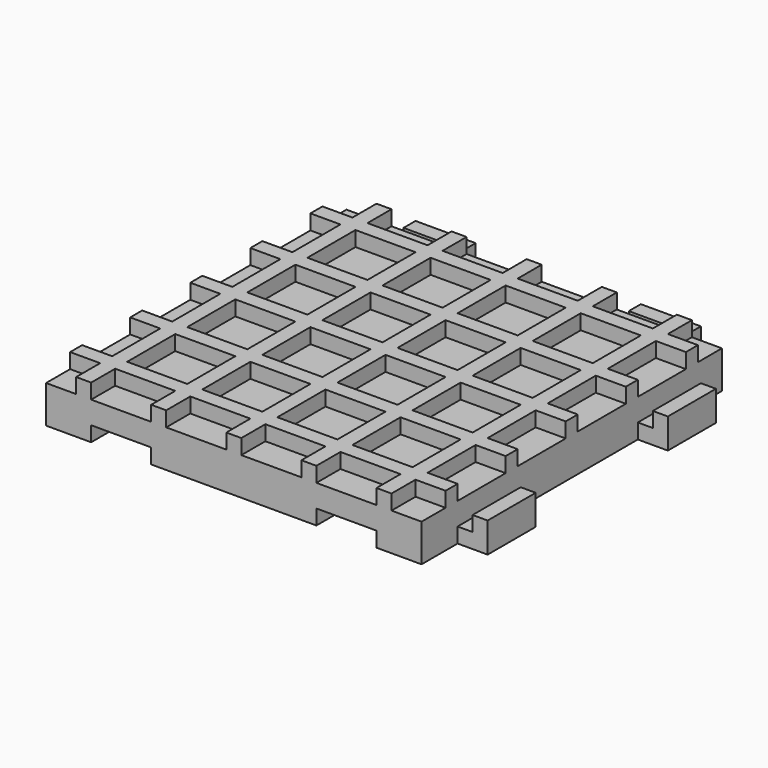
from build123d import *

# Parameters (mm, degrees)
F0_W      = 50
F0_H      = 50
F1_DEPTH  = 5
F2_W      = 4
F2_H      = 2
F2_W_2    = 2
F2_H_2    = 4
F2_W_3    = 8
F2_H_3    = 8
F4_DEPTH  = 2
F3_W      = 8
F3_H      = 2
F5_DEPTH  = 4
F6_W      = 8
F6_H      = 2
F7_DEPTH  = 4
F8_W      = 8
F8_H      = 2
F9_DEPTH  = 4
F10_W     = 8
F10_H     = 2
F11_DEPTH = 2
F12_W     = 8
F12_H     = 2
F13_DEPTH = 2
F14_W     = 8
F14_H     = 2
F15_DEPTH = 4
F16_W     = 2
F16_H     = 8
F17_DEPTH = 2
F18_W     = 2
F18_H     = 8
F19_DEPTH = 2
F20_W     = 8
F20_H     = 2
F21_DEPTH = 2
F22_W     = 8
F22_H     = 2
F23_DEPTH = 2
F24_W     = 2
F24_H     = 8
F25_DEPTH = 2
F26_W     = 2
F26_H     = 8
F27_DEPTH = 2


with BuildPart() as f1:
    # F0 (on Top) → F1 (new body)
    with BuildSketch(Plane.XY):
        with Locations((-4.374999553, 15.4727034503)):
            Rectangle(F0_W, F0_H)
    extrude(amount=F1_DEPTH)

    # F2 (on face) → F4 (join)
    with BuildSketch(Plane.XY.offset(5)):
        with Locations((-27.374999553, -4.5272965497)):
            Rectangle(F2_W, F2_H)
        with Locations((-24.374999553, -4.5272965497)):
            Rectangle(F2_W_2, F2_H)
        with Locations((-24.374999553, -7.5272965497)):
            Rectangle(F2_W_2, F2_H_2)
        with Locations((-19.374999553, -4.5272965497)):
            Rectangle(F2_W_3, F2_H)
        with Locations((-24.374999553, 0.4727034503)):
            Rectangle(F2_W_2, F2_H_3)
        with Locations((-14.374999553, -4.5272965497)):
            Rectangle(F2_W_2, F2_H)
        with Locations((-14.374999553, -7.5272965497)):
            Rectangle(F2_W_2, F2_H_2)
        with Locations((-24.374999553, 5.4727034503)):
            Rectangle(F2_W_2, F2_H)
        with Locations((-27.374999553, 5.4727034503)):
            Rectangle(F2_W, F2_H)
        with Locations((-9.374999553, -4.5272965497)):
            Rectangle(F2_W_3, F2_H)
        with Locations((-24.374999553, 10.4727034503)):
            Rectangle(F2_W_2, F2_H_3)
        with Locations((-4.374999553, -4.5272965497)):
            Rectangle(F2_W_2, F2_H)
        with Locations((-4.374999553, -7.5272965497)):
            Rectangle(F2_W_2, F2_H_2)
        with Locations((-24.374999553, 15.4727034503)):
            Rectangle(F2_W_2, F2_H)
        with Locations((-27.374999553, 15.4727034503)):
            Rectangle(F2_W, F2_H)
        with Locations((0.625000447, -4.5272965497)):
            Rectangle(F2_W_3, F2_H)
        with Locations((-24.374999553, 20.4727034503)):
            Rectangle(F2_W_2, F2_H_3)
        with Locations((5.625000447, -4.5272965497)):
            Rectangle(F2_W_2, F2_H)
        with Locations((5.625000447, -7.5272965497)):
            Rectangle(F2_W_2, F2_H_2)
        with Locations((-24.374999553, 25.4727034503)):
            Rectangle(F2_W_2, F2_H)
        with Locations((-27.374999553, 25.4727034503)):
            Rectangle(F2_W, F2_H)
        with Locations((10.625000447, -4.5272965497)):
            Rectangle(F2_W_3, F2_H)
        with Locations((-24.374999553, 30.4727034503)):
            Rectangle(F2_W_2, F2_H_3)
        with Locations((15.625000447, -4.5272965497)):
            Rectangle(F2_W_2, F2_H)
        with Locations((15.625000447, -7.5272965497)):
            Rectangle(F2_W_2, F2_H_2)
        with Locations((-24.374999553, 35.4727034503)):
            Rectangle(F2_W_2, F2_H)
        with Locations((-27.374999553, 35.4727034503)):
            Rectangle(F2_W, F2_H)
        with Locations((18.625000447, -4.5272965497)):
            Rectangle(F2_W, F2_H)
        with Locations((15.625000447, 0.4727034503)):
            Rectangle(F2_W_2, F2_H_3)
        with Locations((-19.374999553, 35.4727034503)):
            Rectangle(F2_W_3, F2_H)
        with Locations((-24.374999553, 38.4727034503)):
            Rectangle(F2_W_2, F2_H_2)
        with Locations((15.625000447, 5.4727034503)):
            Rectangle(F2_W_2, F2_H)
        with Locations((-14.374999553, 35.4727034503)):
            Rectangle(F2_W_2, F2_H)
        with Locations((18.625000447, 5.4727034503)):
            Rectangle(F2_W, F2_H)
        with Locations((15.625000447, 10.4727034503)):
            Rectangle(F2_W_2, F2_H_3)
        with Locations((-9.374999553, 35.4727034503)):
            Rectangle(F2_W_3, F2_H)
        with Locations((-14.374999553, 38.4727034503)):
            Rectangle(F2_W_2, F2_H_2)
        with Locations((15.625000447, 15.4727034503)):
            Rectangle(F2_W_2, F2_H)
        with Locations((-4.374999553, 35.4727034503)):
            Rectangle(F2_W_2, F2_H)
        with Locations((18.625000447, 15.4727034503)):
            Rectangle(F2_W, F2_H)
        with Locations((15.625000447, 20.4727034503)):
            Rectangle(F2_W_2, F2_H_3)
        with Locations((0.625000447, 35.4727034503)):
            Rectangle(F2_W_3, F2_H)
        with Locations((-4.374999553, 38.4727034503)):
            Rectangle(F2_W_2, F2_H_2)
        with Locations((15.625000447, 25.4727034503)):
            Rectangle(F2_W_2, F2_H)
        with Locations((5.625000447, 35.4727034503)):
            Rectangle(F2_W_2, F2_H)
        with Locations((18.625000447, 25.4727034503)):
            Rectangle(F2_W, F2_H)
        with Locations((15.625000447, 30.4727034503)):
            Rectangle(F2_W_2, F2_H_3)
        with Locations((10.625000447, 35.4727034503)):
            Rectangle(F2_W_3, F2_H)
        with Locations((5.625000447, 38.4727034503)):
            Rectangle(F2_W_2, F2_H_2)
        with Locations((15.625000447, 35.4727034503)):
            Rectangle(F2_W_2, F2_H)
        with Locations((18.625000447, 35.4727034503)):
            Rectangle(F2_W, F2_H)
        with Locations((15.625000447, 38.4727034503)):
            Rectangle(F2_W_2, F2_H_2)
        with Locations((-14.374999553, 0.4727034503)):
            Rectangle(F2_W_2, F2_H_3)
        with Locations((-14.374999553, 5.4727034503)):
            Rectangle(F2_W_2, F2_H)
        with Locations((-9.374999553, 5.4727034503)):
            Rectangle(F2_W_3, F2_H)
        with Locations((-14.374999553, 10.4727034503)):
            Rectangle(F2_W_2, F2_H_3)
        with Locations((-14.374999553, 15.4727034503)):
            Rectangle(F2_W_2, F2_H)
        with Locations((-19.374999553, 15.4727034503)):
            Rectangle(F2_W_3, F2_H)
        with Locations((-19.374999553, 25.4727034503)):
            Rectangle(F2_W_3, F2_H)
        with Locations((-14.374999553, 25.4727034503)):
            Rectangle(F2_W_2, F2_H)
        with Locations((-14.374999553, 30.4727034503)):
            Rectangle(F2_W_2, F2_H_3)
        with Locations((-14.374999553, 20.4727034503)):
            Rectangle(F2_W_2, F2_H_3)
        with Locations((-9.374999553, 25.4727034503)):
            Rectangle(F2_W_3, F2_H)
        with Locations((-4.374999553, 20.4727034503)):
            Rectangle(F2_W_2, F2_H_3)
        with Locations((-4.374999553, 15.4727034503)):
            Rectangle(F2_W_2, F2_H)
        with Locations((-9.374999553, 15.4727034503)):
            Rectangle(F2_W_3, F2_H)
        with Locations((-4.374999553, 10.4727034503)):
            Rectangle(F2_W_2, F2_H_3)
        with Locations((-4.374999553, 5.4727034503)):
            Rectangle(F2_W_2, F2_H)
        with Locations((-4.374999553, 0.4727034503)):
            Rectangle(F2_W_2, F2_H_3)
        with Locations((0.625000447, 5.4727034503)):
            Rectangle(F2_W_3, F2_H)
        with Locations((5.625000447, 0.4727034503)):
            Rectangle(F2_W_2, F2_H_3)
        with Locations((5.625000447, 5.4727034503)):
            Rectangle(F2_W_2, F2_H)
        with Locations((10.625000447, 5.4727034503)):
            Rectangle(F2_W_3, F2_H)
        with Locations((5.625000447, 10.4727034503)):
            Rectangle(F2_W_2, F2_H_3)
        with Locations((10.625000447, 15.4727034503)):
            Rectangle(F2_W_3, F2_H)
        with Locations((5.625000447, 15.4727034503)):
            Rectangle(F2_W_2, F2_H)
        with Locations((0.625000447, 15.4727034503)):
            Rectangle(F2_W_3, F2_H)
        with Locations((5.625000447, 20.4727034503)):
            Rectangle(F2_W_2, F2_H_3)
        with Locations((5.625000447, 25.4727034503)):
            Rectangle(F2_W_2, F2_H)
        with Locations((0.625000447, 25.4727034503)):
            Rectangle(F2_W_3, F2_H)
        with Locations((-4.374999553, 30.4727034503)):
            Rectangle(F2_W_2, F2_H_3)
        with Locations((-4.374999553, 25.4727034503)):
            Rectangle(F2_W_2, F2_H)
        with Locations((5.625000447, 30.4727034503)):
            Rectangle(F2_W_2, F2_H_3)
        with Locations((10.625000447, 25.4727034503)):
            Rectangle(F2_W_3, F2_H)
        with Locations((-19.374999553, 5.4727034503)):
            Rectangle(F2_W_3, F2_H)
    extrude(amount=F4_DEPTH)

    # F3 (on face) → F5 (cut)
    with BuildSketch(Plane.XZ.offset(9.5272965497)):
        with Locations((-19.374999553, 1)):
            Rectangle(F3_W, F3_H)
        with Locations((10.625000447, 1)):
            Rectangle(F3_W, F3_H)
    extrude(amount=-F5_DEPTH, mode=Mode.SUBTRACT)

    # F6 (on face) → F7 (cut)
    with BuildSketch(Plane(origin=(-29.374999553, 0, 0), x_dir=(0, -1, 0), z_dir=(-1, 0, 0))):
        with Locations((-30.4727034503, 1)):
            Rectangle(F6_W, F6_H)
        with Locations((-0.4727034503, 1)):
            Rectangle(F6_W, F6_H)
    extrude(amount=-F7_DEPTH, mode=Mode.SUBTRACT)

    # F8 (on face) → F9 (join)
    with BuildSketch(Plane(origin=(0, 40.4727034503, 0), x_dir=(-1, 0, 0), z_dir=(0, 1, 0))):
        with Locations((-10.625000447, 1)):
            Rectangle(F8_W, F8_H)
        with Locations((19.374999553, 1)):
            Rectangle(F8_W, F8_H)
    extrude(amount=F9_DEPTH)

    # F10 (on face) → F11 (join)
    with BuildSketch(Plane.XY.offset(2)):
        with Locations((-19.374999553, 43.4727034503)):
            Rectangle(F10_W, F10_H)
    extrude(amount=F11_DEPTH)

    # F12 (on face) → F13 (join)
    with BuildSketch(Plane.XY.offset(2)):
        with Locations((10.625000447, 43.4727034503)):
            Rectangle(F12_W, F12_H)
    extrude(amount=F13_DEPTH)

    # F14 (on face) → F15 (join)
    with BuildSketch(Plane.YZ.offset(20.625000447)):
        with Locations((0.4727034503, 1)):
            Rectangle(F14_W, F14_H)
        with Locations((30.4727034503, 1)):
            Rectangle(F14_W, F14_H)
    extrude(amount=F15_DEPTH)

    # F16 (on face) → F17 (join)
    with BuildSketch(Plane.XY.offset(2)):
        with Locations((23.625000447, 30.4727034503)):
            Rectangle(F16_W, F16_H)
    extrude(amount=F17_DEPTH)

    # F18 (on face) → F19 (join)
    with BuildSketch(Plane.XY.offset(2)):
        with Locations((23.625000447, 0.4727034503)):
            Rectangle(F18_W, F18_H)
    extrude(amount=F19_DEPTH)

    # F20 (on face) → F21 (cut)
    with BuildSketch(Plane(origin=(0, 0, 2), x_dir=(1, 0, 0), z_dir=(0, 0, -1))):
        with Locations((10.625000447, 6.5272965497)):
            Rectangle(F20_W, F20_H)
    extrude(amount=-F21_DEPTH, mode=Mode.SUBTRACT)

    # F22 (on face) → F23 (cut)
    with BuildSketch(Plane(origin=(0, 0, 2), x_dir=(1, 0, 0), z_dir=(0, 0, -1))):
        with Locations((-19.374999553, 6.5272965497)):
            Rectangle(F22_W, F22_H)
    extrude(amount=-F23_DEPTH, mode=Mode.SUBTRACT)

    # F24 (on face) → F25 (cut)
    with BuildSketch(Plane(origin=(0, 0, 2), x_dir=(1, 0, 0), z_dir=(0, 0, -1))):
        with Locations((-26.374999553, -0.4727034503)):
            Rectangle(F24_W, F24_H)
    extrude(amount=-F25_DEPTH, mode=Mode.SUBTRACT)

    # F26 (on face) → F27 (cut)
    with BuildSketch(Plane(origin=(0, 0, 2), x_dir=(1, 0, 0), z_dir=(0, 0, -1))):
        with Locations((-26.374999553, -30.4727034503)):
            Rectangle(F26_W, F26_H)
    extrude(amount=-F27_DEPTH, mode=Mode.SUBTRACT)


solid = f1.part
